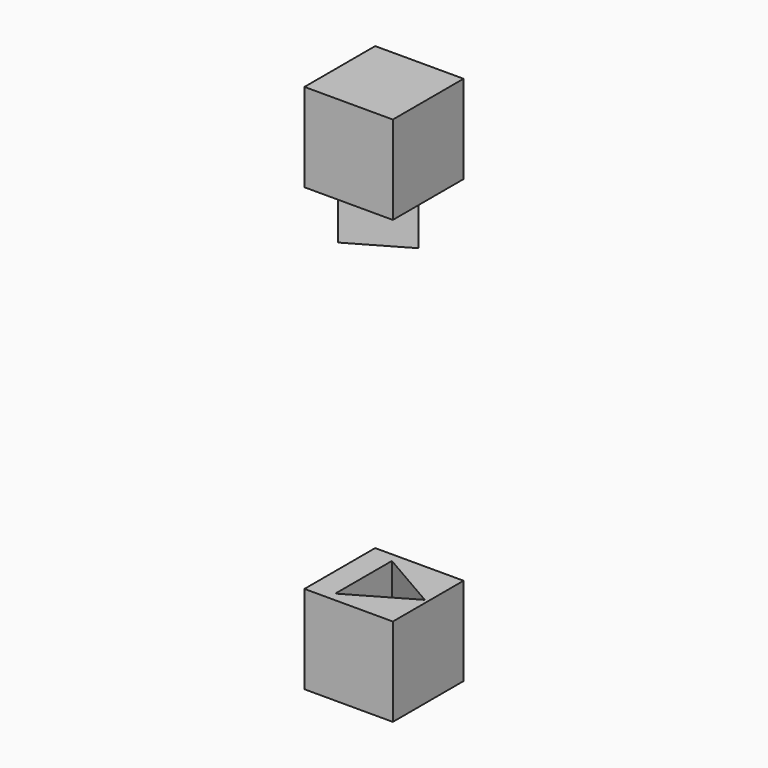
from build123d import *

# Parameters (mm, degrees)
F0_W     = 6.35
F0_H     = 6.35
F1_DEPTH = 6.35
F2_DEPTH = 3.81
F4_W     = 6.35
F4_H     = 6.35
F5_DEPTH = 6.35
F6_DEPTH = 3.302


with BuildPart() as f1:
    # F0 (on Top) → F1 (new body)
    with BuildSketch(Plane.XY):
        Rectangle(F0_W, F0_H)
        Polygon((2.932939, 0), (-1.46647, -2.54), (-1.46647, 2.54), align=None, mode=Mode.SUBTRACT)
        Polygon((-1.46647, 2.54), (-1.46647, -2.54), (2.932939, 0), align=None)
    extrude(amount=-F1_DEPTH)

    # F0 (on Top) → F2 (cut)
    with BuildSketch(Plane.XY):
        Polygon((-1.46647, 2.54), (-1.46647, -2.54), (2.932939, 0), align=None)
    extrude(amount=-F2_DEPTH, mode=Mode.SUBTRACT)


with BuildPart() as f5:
    # F4 (on offset) → F5 (new body)
    with BuildSketch(Plane.XY.offset(25.4)):
        Rectangle(F4_W, F4_H)
        Polygon((-1.46647, -2.286), (-1.46647, 0), (-1.46647, 2.286), (2.492998, 0), align=None, mode=Mode.SUBTRACT)
        Polygon((-1.46647, 2.286), (-1.46647, 0), (-1.46647, -2.286), (2.492998, 0), align=None)
    extrude(amount=F5_DEPTH)

    # F4 (on offset) → F6 (join)
    with BuildSketch(Plane.XY.offset(25.4)):
        Polygon((-1.46647, 2.286), (-1.46647, 0), (-1.46647, -2.286), (2.492998, 0), align=None)
    extrude(amount=-F6_DEPTH)


solid = Compound([f1.part, f5.part])
